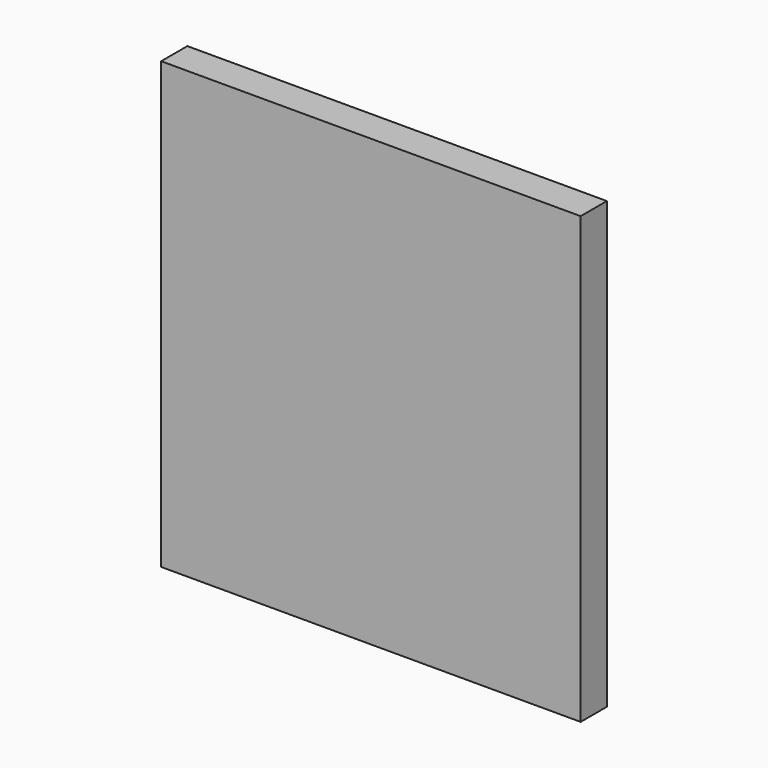
from build123d import *

# Parameters (mm, degrees)
F0_W     = 75
F0_H     = 75
F0_R     = 5.5245
F0_W_2   = 6.35
F0_H_2   = 6.35
F1_DEPTH = 6.35


with BuildPart() as f1:
    # F0 (on Front) → F1 (new body)
    with BuildSketch(Plane.XZ):
        Rectangle(F0_W, F0_H)
        with Locations((0, -27.34)):
            Circle(F0_R, mode=Mode.SUBTRACT)
        with Locations((40.675, 0)):
            Rectangle(F0_W_2, F0_H)
        with Locations((40.675, -40.675)):
            Rectangle(F0_W_2, F0_H_2)
        with Locations((0, -40.675)):
            Rectangle(F0_W, F0_H_2)
        with Locations((40.675, 0)):
            Rectangle(F0_W_2, F0_H)
        Polygon((-37.5, 37.5), (37.5, 37.5), (43.85, 37.5), (43.85, 42.5), (-37.5, 42.5), align=None)
        Rectangle(F0_W, F0_H)
        with Locations((0, -27.34)):
            Circle(F0_R, mode=Mode.SUBTRACT)
        with Locations((0, -27.34)):
            Circle(F0_R)
    extrude(amount=F1_DEPTH)


solid = f1.part
